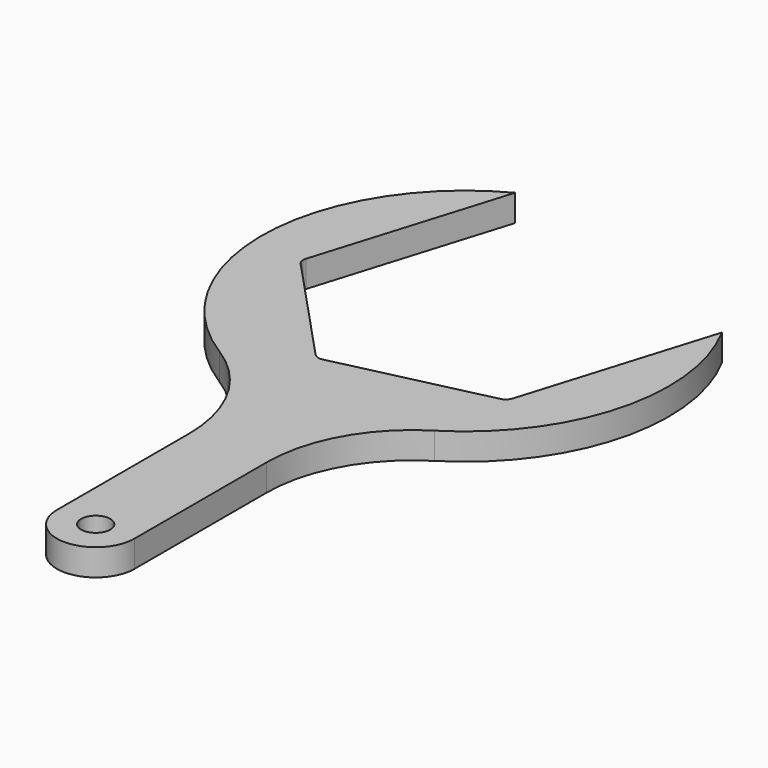
from build123d import *

# Parameters (mm, degrees)
F0_R     = 3
F1_DEPTH = 5.5


with BuildPart() as f1:
    # F0 (on Top) → F1 (new body)
    with BuildSketch(Plane.XY):
        with BuildLine():
            ThreePointArc((20.704808, -40.455588), (39.12943, -15.567964), (35.489774, 15.182865))
            Line((35.489774, 15.182865), (23.568966, -23.808343))
            ThreePointArc((23.568966, -23.808343), (23.020353, -24.686307), (22.106259, -25.172339))
            Line((22.106259, -25.172339), (-8.834146, -32.315495))
            ThreePointArc((-8.834146, -32.315495), (-9.868792, -32.279364), (-10.746756, -31.730751))
            Line((-10.746756, -31.730751), (-32.403112, -8.507152))
            ThreePointArc((-32.403112, -8.507152), (-32.889145, -7.593057), (-32.853015, -6.558412))
            Line((-32.853015, -6.558412), (-20.932206, 32.432796))
            ThreePointArc((-20.932206, 32.432796), (-43.433151, -3.228903), (-23.628525, -40.455588))
            ThreePointArc((-23.628525, -40.455588), (-13.241637, -51.359683), (-9.461859, -65.937063))
            Line((-9.461859, -65.937063), (-9.461859, -100))
            ThreePointArc((-9.461859, -100), (-1.461859, -108), (6.538141, -100))
            Line((6.538141, -100), (6.538141, -65.937063))
            ThreePointArc((6.538141, -65.937063), (10.31792, -51.359683), (20.704808, -40.455588))
        make_face()
        with Locations((-1.461859, -100)):
            Circle(F0_R, mode=Mode.SUBTRACT)
    extrude(amount=F1_DEPTH)


solid = f1.part
